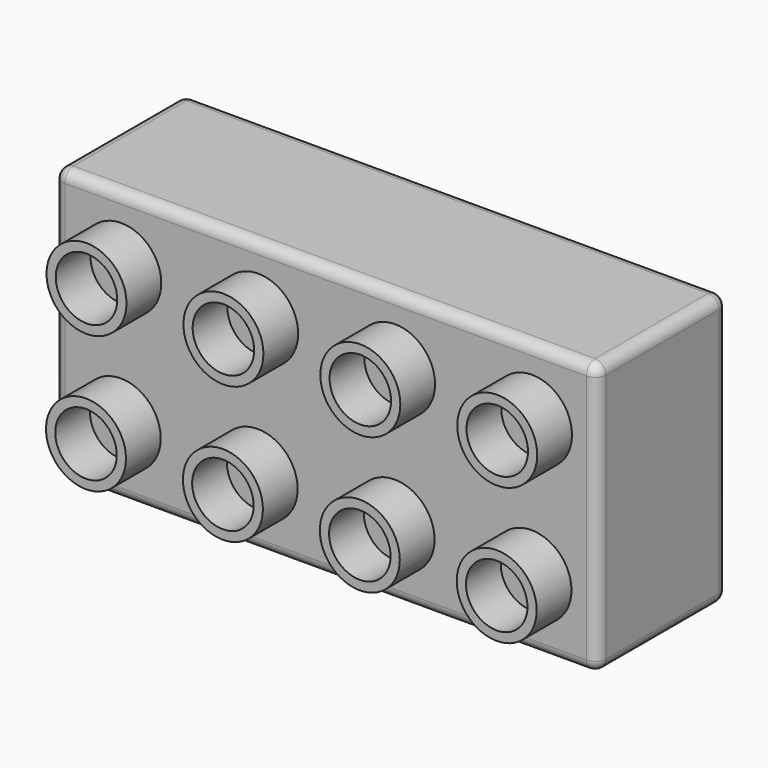
from build123d import *

# Parameters (mm, degrees)
F0_W     = 63.5
F0_H     = 19.05
F1_DEPTH = 31.75
F2_T     = -1.3208
F3_R     = 4.6736
F3_R_2   = 3.5941
F4_DEPTH = 5.08
F5_R     = 1.27


with BuildPart() as f1:
    # F0 (on Top) → F1 (new body)
    with BuildSketch(Plane.XY):
        with Locations((-26.116837, 21.650621)):
            Rectangle(F0_W, F0_H)
    extrude(amount=F1_DEPTH)

    # F2
    f2_openings = [f1.faces().sort_by_distance(p)[0] for p in [
        (-26.116837, 31.175621, 15.875),
    ]]
    offset(amount=F2_T, openings=f2_openings)

    # F3 (on face) → F4 (join)
    with BuildSketch(Plane.XZ.offset(-12.125621)):
        with Locations((-49.992837, 23.876)):
            Circle(F3_R)
        with Locations((-49.992837, 23.876)):
            Circle(F3_R_2, mode=Mode.SUBTRACT)
        with Locations((-33.990837, 23.876)):
            Circle(F3_R)
        with Locations((-33.990837, 23.876)):
            Circle(F3_R_2, mode=Mode.SUBTRACT)
        with Locations((-17.988837, 23.876)):
            Circle(F3_R)
        with Locations((-17.988837, 23.876)):
            Circle(F3_R_2, mode=Mode.SUBTRACT)
        with Locations((-1.986837, 23.876)):
            Circle(F3_R)
        with Locations((-1.986837, 23.876)):
            Circle(F3_R_2, mode=Mode.SUBTRACT)
        with Locations((-50.052113, 7.87411)):
            Circle(F3_R)
        with Locations((-50.052113, 7.87411)):
            Circle(F3_R_2, mode=Mode.SUBTRACT)
        with Locations((-34.050113, 7.87411)):
            Circle(F3_R)
        with Locations((-34.050113, 7.87411)):
            Circle(F3_R_2, mode=Mode.SUBTRACT)
        with Locations((-18.048113, 7.87411)):
            Circle(F3_R)
        with Locations((-18.048113, 7.87411)):
            Circle(F3_R_2, mode=Mode.SUBTRACT)
        with Locations((-2.046113, 7.87411)):
            Circle(F3_R)
        with Locations((-2.046113, 7.87411)):
            Circle(F3_R_2, mode=Mode.SUBTRACT)
    extrude(amount=F4_DEPTH)

    # F5
    f5_edges = [f1.edges().sort_by_distance(p)[0] for p in [
        (-26.116837, 31.175621, 0),
        (-57.866837, 21.650621, 0),
        (-26.116837, 12.125621, 0),
        (5.633163, 21.650621, 0),
        (-57.866837, 31.175621, 15.875),
        (-57.866837, 12.125621, 15.875),
        (-57.866837, 21.650621, 31.75),
        (-26.116837, 31.175621, 31.75),
        (-26.116837, 12.125621, 31.75),
        (5.633163, 21.650621, 31.75),
        (5.633163, 12.125621, 15.875),
        (5.633163, 31.175621, 15.875),
    ]]
    fillet(f5_edges, radius=F5_R)


solid = f1.part
